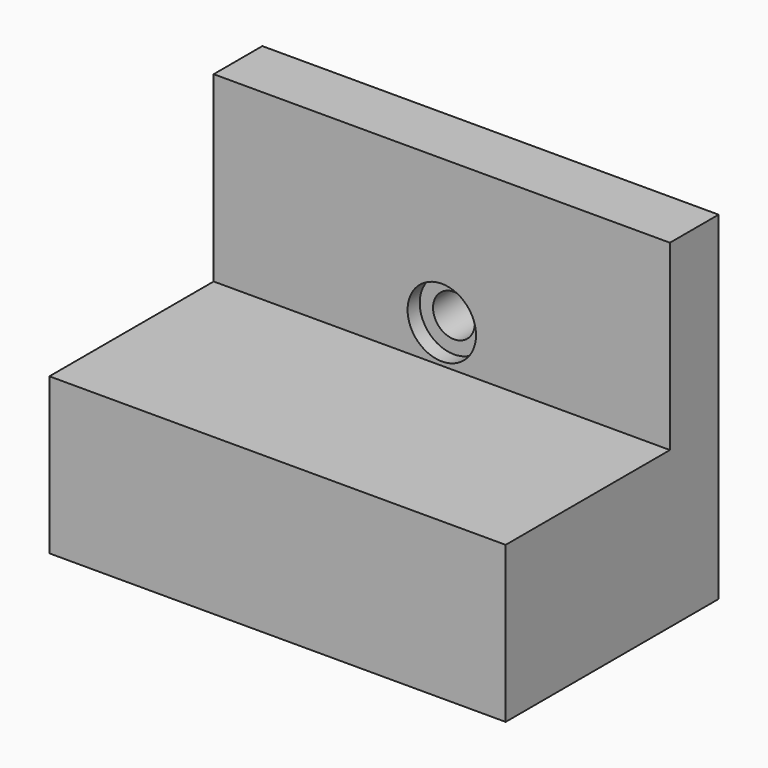
from build123d import *

# Parameters (mm, degrees)
F0_W           = 60
F0_H           = 35
F1_DEPTH       = 20.5
F2_W           = 60
F2_H           = 8
F3_DEPTH       = 24
F5_D           = 5.5
F5_CBORE_D     = 9
F5_CBORE_DEPTH = 2
F7_D           = 4.5
F7_DEPTH       = 3
F7_TIP         = 1.3519363928


with BuildPart() as f1:
    # F0 (on Top) → F1 (new body)
    with BuildSketch(Plane.XY):
        Rectangle(F0_W, F0_H)
    extrude(amount=F1_DEPTH)

    # F2 (on face) → F3 (join)
    with BuildSketch(Plane.XY.offset(20.5)):
        with Locations((0, 13.5)):
            Rectangle(F2_W, F2_H)
    extrude(amount=F3_DEPTH)

    # F5 (through all)
    with Locations(Plane.XZ.offset(-9.5)):
        with Locations((0, 25.5)):
            CounterBoreHole(F5_D / 2, F5_CBORE_D / 2, F5_CBORE_DEPTH)

    # F7
    with Locations(Plane(origin=(0, 17.5, 0), x_dir=(-1, 0, 0), z_dir=(0, 1, 0))):
        with Locations((0, 15.5)):
            Hole(F7_D / 2, depth=F7_DEPTH)
            with Locations((0, 0, -(F7_DEPTH + F7_TIP / 2))):  # 118° drill point
                Cone(0, F7_D / 2, F7_TIP, mode=Mode.SUBTRACT)


solid = f1.part
